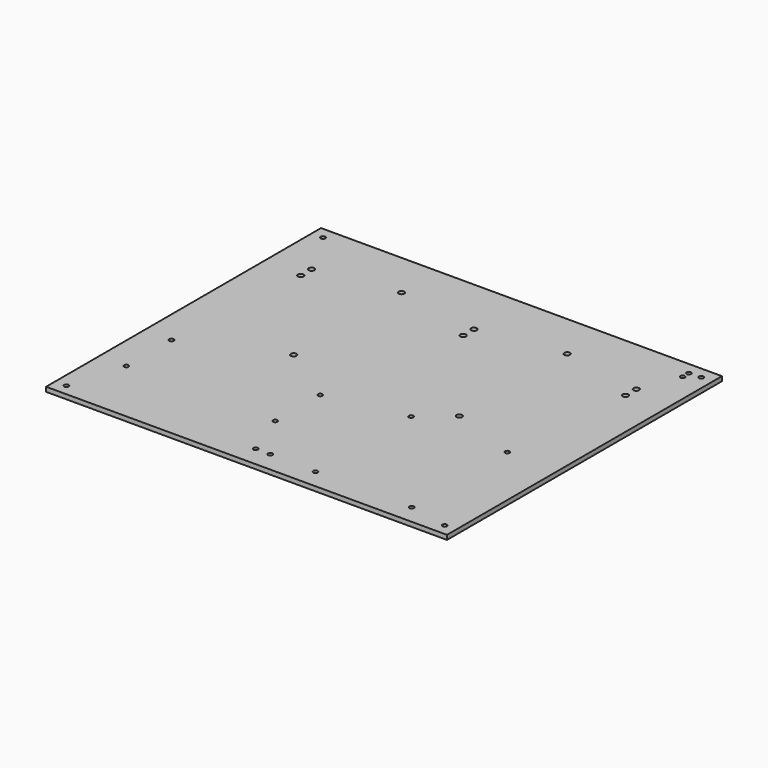
from build123d import *

# Parameters (mm, degrees)
CYLINDER086_R     = 2
CYLINDER086_DEPTH = 10
CYLINDER085_R     = 2
CYLINDER085_DEPTH = 10
CYLINDER075_R     = 2
CYLINDER075_DEPTH = 10
CYLINDER076_R     = 2
CYLINDER076_DEPTH = 10
CYLINDER074_R     = 2
CYLINDER074_DEPTH = 10
CYLINDER073_R     = 2
CYLINDER073_DEPTH = 10
CYLINDER072_R     = 2
CYLINDER072_DEPTH = 10
CYLINDER065_R     = 2
CYLINDER065_DEPTH = 10
CYLINDER070_R     = 2
CYLINDER070_DEPTH = 10
CYLINDER064_R     = 2
CYLINDER064_DEPTH = 10
CYLINDER066_R     = 2
CYLINDER066_DEPTH = 10
CYLINDER067_R     = 2
CYLINDER067_DEPTH = 10
CYLINDER069_R     = 2
CYLINDER069_DEPTH = 10
CYLINDER068_R     = 2
CYLINDER068_DEPTH = 10
CYLINDER071_R     = 2
CYLINDER071_DEPTH = 10
CYLINDER063_R     = 2
CYLINDER063_DEPTH = 10
CYLINDER045_R     = 2.5
CYLINDER045_DEPTH = 14
CYLINDER046_R     = 2.5
CYLINDER046_DEPTH = 14
CYLINDER044_R     = 2.5
CYLINDER044_DEPTH = 14
CYLINDER043_R     = 2.5
CYLINDER043_DEPTH = 14
CYLINDER041_R     = 2.5
CYLINDER041_DEPTH = 10
CYLINDER042_R     = 2.5
CYLINDER042_DEPTH = 10
CYLINDER039_R     = 2.5
CYLINDER039_DEPTH = 10
CYLINDER040_R     = 2.5
CYLINDER040_DEPTH = 10
CYLINDER023_R     = 2.5
CYLINDER023_DEPTH = 10
CYLINDER020_R     = 2.5
CYLINDER020_DEPTH = 10
BOX_W             = 355.6
BOX_H             = 304.8
BOX_DEPTH         = 4


with BuildPart() as cylinder086:
    # Cylinder086 → Cylinder086 (new body)
    with BuildSketch(Plane(origin=(335, 287, 0), x_dir=(1, 0, 0), z_dir=(0, 0, 1))):
        Circle(CYLINDER086_R)
    extrude(amount=CYLINDER086_DEPTH)


with BuildPart() as fusion050:
    # Cylinder085 → Cylinder085 (new body)
    with BuildSketch(Plane(origin=(335, 294, 0), x_dir=(1, 0, 0), z_dir=(0, 0, 1))):
        Circle(CYLINDER085_R)
    extrude(amount=CYLINDER085_DEPTH)

    # Fusion050: union Cylinder086
    add(cylinder086.part)


with BuildPart() as hold002:
    # Cylinder075 → Cylinder075 (new body)
    with BuildSketch(Plane(origin=(10, 294.5, 0), x_dir=(1, 0, 0), z_dir=(0, 0, 1))):
        Circle(CYLINDER075_R)
    extrude(amount=CYLINDER075_DEPTH)


with BuildPart() as hold003:
    # Cylinder076 → Cylinder076 (new body)
    with BuildSketch(Plane(origin=(345.5, 294.5, 0), x_dir=(1, 0, 0), z_dir=(0, 0, 1))):
        Circle(CYLINDER076_R)
    extrude(amount=CYLINDER076_DEPTH)


with BuildPart() as hold001:
    # Cylinder074 → Cylinder074 (new body)
    with BuildSketch(Plane(origin=(345.5, 10, 0), x_dir=(1, 0, 0), z_dir=(0, 0, 1))):
        Circle(CYLINDER074_R)
    extrude(amount=CYLINDER074_DEPTH)


with BuildPart() as fusion041:
    # Cylinder073 → Cylinder073 (new body)
    with BuildSketch(Plane(origin=(10, 10, 0), x_dir=(1, 0, 0), z_dir=(0, 0, 1))):
        Circle(CYLINDER073_R)
    extrude(amount=CYLINDER073_DEPTH)

    # Fusion041: union hold002, hold003, hold001
    add(hold002.part)
    add(hold003.part)
    add(hold001.part)


with BuildPart() as cylinder072:
    # Cylinder072 → Cylinder072 (new body)
    with BuildSketch(Plane(origin=(184.5, 18, 0), x_dir=(1, 0, 0), z_dir=(0, 0, 1))):
        Circle(CYLINDER072_R)
    extrude(amount=CYLINDER072_DEPTH)


with BuildPart() as cylinder065:
    # Cylinder065 → Cylinder065 (new body)
    with BuildSketch(Plane(origin=(156, 59, 0), x_dir=(1, 0, 0), z_dir=(0, 0, 1))):
        Circle(CYLINDER065_R)
    extrude(amount=CYLINDER065_DEPTH)


with BuildPart() as cylinder070:
    # Cylinder070 → Cylinder070 (new body)
    with BuildSketch(Plane(origin=(225.35, 17, 0), x_dir=(1, 0, 0), z_dir=(0, 0, 1))):
        Circle(CYLINDER070_R)
    extrude(amount=CYLINDER070_DEPTH)


with BuildPart() as cylinder064:
    # Cylinder064 → Cylinder064 (new body)
    with BuildSketch(Plane(origin=(24, 109, 0), x_dir=(1, 0, 0), z_dir=(0, 0, 1))):
        Circle(CYLINDER064_R)
    extrude(amount=CYLINDER064_DEPTH)


with BuildPart() as cylinder066:
    # Cylinder066 → Cylinder066 (new body)
    with BuildSketch(Plane(origin=(156, 109, 0), x_dir=(1, 0, 0), z_dir=(0, 0, 1))):
        Circle(CYLINDER066_R)
    extrude(amount=CYLINDER066_DEPTH)


with BuildPart() as cylinder067:
    # Cylinder067 → Cylinder067 (new body)
    with BuildSketch(Plane(origin=(225.35, 123, 0), x_dir=(1, 0, 0), z_dir=(0, 0, 1))):
        Circle(CYLINDER067_R)
    extrude(amount=CYLINDER067_DEPTH)


with BuildPart() as cylinder069:
    # Cylinder069 → Cylinder069 (new body)
    with BuildSketch(Plane(origin=(310.65, 17, 0), x_dir=(1, 0, 0), z_dir=(0, 0, 1))):
        Circle(CYLINDER069_R)
    extrude(amount=CYLINDER069_DEPTH)


with BuildPart() as cylinder068:
    # Cylinder068 → Cylinder068 (new body)
    with BuildSketch(Plane(origin=(310.65, 123, 0), x_dir=(1, 0, 0), z_dir=(0, 0, 1))):
        Circle(CYLINDER068_R)
    extrude(amount=CYLINDER068_DEPTH)


with BuildPart() as cylinder071:
    # Cylinder071 → Cylinder071 (new body)
    with BuildSketch(Plane(origin=(171.5, 18, 0), x_dir=(1, 0, 0), z_dir=(0, 0, 1))):
        Circle(CYLINDER071_R)
    extrude(amount=CYLINDER071_DEPTH)


with BuildPart() as holecuts:
    # Cylinder063 → Cylinder063 (new body)
    with BuildSketch(Plane(origin=(24, 59, 0), x_dir=(1, 0, 0), z_dir=(0, 0, 1))):
        Circle(CYLINDER063_R)
    extrude(amount=CYLINDER063_DEPTH)

    # Fusion040: union Cylinder072, Cylinder065, Cylinder070, Cylinder064, Cylinder066, Cylinder067, Cylinder069, Cylinder068, Cylinder071
    add(cylinder072.part)
    add(cylinder065.part)
    add(cylinder070.part)
    add(cylinder064.part)
    add(cylinder066.part)
    add(cylinder067.part)
    add(cylinder069.part)
    add(cylinder068.part)
    add(cylinder071.part)


with BuildPart() as m4s017:
    # Cylinder045 → Cylinder045 (new body)
    with BuildSketch(Plane(origin=(105, 264, 0), x_dir=(1, 0, 0), z_dir=(0, 0, 1))):
        Circle(CYLINDER045_R)
    extrude(amount=CYLINDER045_DEPTH)


with BuildPart() as fusion023:
    # Cylinder046 → Cylinder046 (new body)
    with BuildSketch(Plane(origin=(105, 144.5, 0), x_dir=(1, 0, 0), z_dir=(0, 0, 1))):
        Circle(CYLINDER046_R)
    extrude(amount=CYLINDER046_DEPTH)

    # Fusion023: union m4s017
    add(m4s017.part)


with BuildPart() as fusion023_1:
    # Fusion023 placement: moved
    add(fusion023.part.moved(Location((146, 0, 0))))


with BuildPart() as m4s016:
    # Cylinder044 → Cylinder044 (new body)
    with BuildSketch(Plane(origin=(105, 264, 0), x_dir=(1, 0, 0), z_dir=(0, 0, 1))):
        Circle(CYLINDER044_R)
    extrude(amount=CYLINDER044_DEPTH)


with BuildPart() as fusion024:
    # Cylinder043 → Cylinder043 (new body)
    with BuildSketch(Plane(origin=(105, 144.5, 0), x_dir=(1, 0, 0), z_dir=(0, 0, 1))):
        Circle(CYLINDER043_R)
    extrude(amount=CYLINDER043_DEPTH)

    # Fusion022: union m4s016
    add(m4s016.part)


with BuildPart() as fusion024_1:
    # Fusion022 placement: moved
    add(fusion024.part.moved(Location((-1, 0, 0))))

    # Fusion024: union Fusion023
    add(fusion023_1.part)


with BuildPart() as m4s013:
    # Cylinder041 → Cylinder041 (new body)
    with BuildSketch(Plane(origin=(177.5, 240.5, 0), x_dir=(1, 0, 0), z_dir=(0, 0, 1))):
        Circle(CYLINDER041_R)
    extrude(amount=CYLINDER041_DEPTH)


with BuildPart() as m4lowcut005:
    # Cylinder042 → Cylinder042 (new body)
    with BuildSketch(Plane(origin=(177.5, 252.5, 0), x_dir=(1, 0, 0), z_dir=(0, 0, 1))):
        Circle(CYLINDER042_R)
    extrude(amount=CYLINDER042_DEPTH)

    # Fusion020: union m4s013
    add(m4s013.part)


with BuildPart() as m4lowcut005_1:
    # Fusion020 placement: moved
    add(m4lowcut005.part.moved(Location((144, 0, 0))))


with BuildPart() as m4s011:
    # Cylinder039 → Cylinder039 (new body)
    with BuildSketch(Plane(origin=(177.5, 240.5, 0), x_dir=(1, 0, 0), z_dir=(0, 0, 1))):
        Circle(CYLINDER039_R)
    extrude(amount=CYLINDER039_DEPTH)


with BuildPart() as fusion021:
    # Cylinder040 → Cylinder040 (new body)
    with BuildSketch(Plane(origin=(177.5, 252.5, 0), x_dir=(1, 0, 0), z_dir=(0, 0, 1))):
        Circle(CYLINDER040_R)
    extrude(amount=CYLINDER040_DEPTH)

    # Fusion019: union m4s011
    add(m4s011.part)


with BuildPart() as fusion021_1:
    # Fusion019 placement: moved
    add(fusion021.part.moved(Location((-144, 0, 0))))

    # Fusion021: union m4lowCut005
    add(m4lowcut005_1.part)


with BuildPart() as m4s005:
    # Cylinder023 → Cylinder023 (new body)
    with BuildSketch(Plane(origin=(177.5, 240.5, 0), x_dir=(1, 0, 0), z_dir=(0, 0, 1))):
        Circle(CYLINDER023_R)
    extrude(amount=CYLINDER023_DEPTH)


with BuildPart() as m4lowcut002:
    # Cylinder020 → Cylinder020 (new body)
    with BuildSketch(Plane(origin=(177.5, 252.5, 0), x_dir=(1, 0, 0), z_dir=(0, 0, 1))):
        Circle(CYLINDER020_R)
    extrude(amount=CYLINDER020_DEPTH)

    # Fusion011: union m4s005
    add(m4s005.part)


with BuildPart() as metalplate003:
    # Box → Box (new body)
    with BuildSketch(Plane.XY):
        with Locations((177.8, 152.4)):
            Rectangle(BOX_W, BOX_H)
    extrude(amount=BOX_DEPTH)

    # Cut038: cut m4lowCut002
    add(m4lowcut002.part, mode=Mode.SUBTRACT)

    # Cut039: cut Fusion021
    add(fusion021_1.part, mode=Mode.SUBTRACT)

    # Cut040: cut Fusion024
    add(fusion024_1.part, mode=Mode.SUBTRACT)

    # Cut058: cut holeCuts
    add(holecuts.part, mode=Mode.SUBTRACT)

    # Cut059: cut Fusion041
    add(fusion041.part, mode=Mode.SUBTRACT)

    # Cut064: cut Fusion050
    add(fusion050.part, mode=Mode.SUBTRACT)


solid = metalplate003.part
